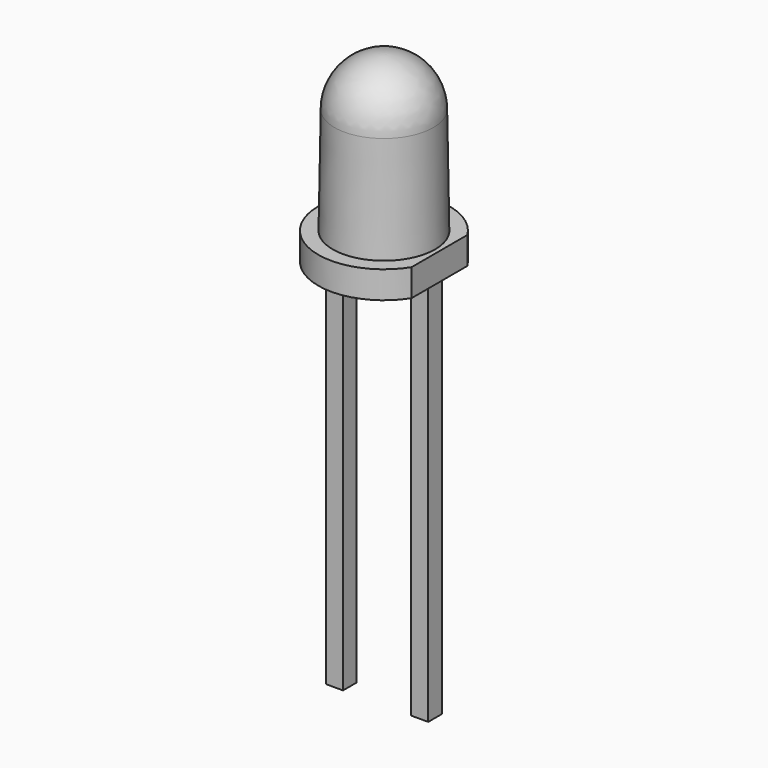
from build123d import *

# Parameters (mm, degrees)
BOX_W        = 10
BOX_H        = 10
BOX_DEPTH    = 10
SKETCH001_W  = 0.5
SKETCH001_H  = 11.3
PAD_DEPTH    = 0.5
SKETCH002_W  = 0.5
SKETCH002_H  = 11.3
PAD001_DEPTH = 0.5


with BuildPart() as obj1:
    # Box → Box (new body)
    with BuildSketch(Plane(origin=(1.63, -4, -1.4), x_dir=(1, 0, 0), z_dir=(0, 0, 1))):
        with Locations((5, 5)):
            Rectangle(BOX_W, BOX_H)
    extrude(amount=BOX_DEPTH)


with BuildPart() as led:
    # Sketch → Revolution (revolve)
    with BuildSketch(Plane.XZ):
        with BuildLine():
            Line((0, 0), (1.925, 0))
            Line((1.925, 0), (1.925, 0.8))
            Line((1.925, 0.8), (1.5, 0.8))
            Line((1.5, 0.8), (1.45, 3.92999))
            ThreePointArc((1.45, 3.92999), (1.025308, 4.955301), (0, 5.38))
            Line((0, 0), (0, 5.38))
        make_face()
    revolve(axis=Axis((0, 0, 0), (0, 0, 1)))

    # Cut: cut obj1
    add(obj1.part, mode=Mode.SUBTRACT)


with BuildPart() as cathode:
    # Sketch001 → Pad (new body)
    with BuildSketch(Plane.XZ):
        with Locations((1.25, -5.65)):
            Rectangle(SKETCH001_W, SKETCH001_H)
    extrude(amount=PAD_DEPTH)


with BuildPart() as cathode_1:
    # Body001 placement: moved
    add(cathode.part.moved(Location((0, 0.25, 0))))


with BuildPart() as obj2:
    # Sketch002 → Pad001 (new body)
    with BuildSketch(Plane.XZ):
        with Locations((-1.25, -5.65)):
            Rectangle(SKETCH002_W, SKETCH002_H)
    extrude(amount=PAD001_DEPTH)


with BuildPart() as obj2_1:
    # Body002 placement: moved
    add(obj2.part.moved(Location((0, 0.25, 0))))


solid = Compound([led.part, cathode_1.part, obj2_1.part])
